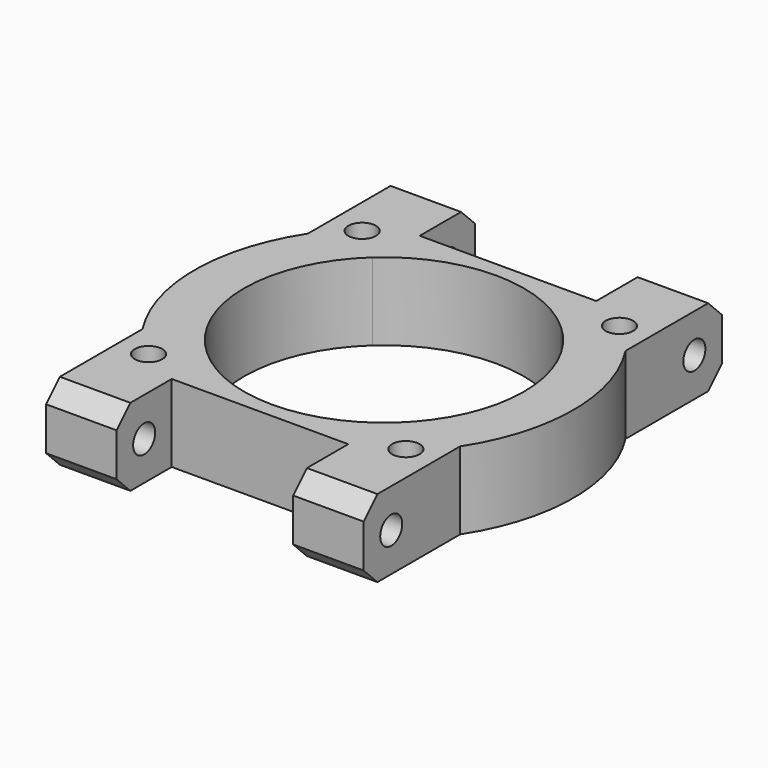
from build123d import *

# Parameters (mm, degrees)
F1_DEPTH = 9
F2_D     = 3.2
F2_DEPTH = 9
F4_D     = 3.2
F4_DEPTH = 40
F5_SIZE  = 2


with BuildPart() as f1:
    # F0 (on Top) → F1 (new body)
    with BuildSketch(Plane.XY):
        with BuildLine():
            Line((18.439089, -12), (10.957304, -12))
            ThreePointArc((10.957304, -12), (0, -16.25), (-10.957304, -12))
            Line((-10.957304, -12), (-18.439089, -12))
            Line((-18.439089, -12), (-18.439089, -26))
            Line((-18.439089, -26), (-10.25, -26))
            Line((-10.25, -26), (-10.25, -18))
            Line((-10.25, -18), (10.25, -18))
            Line((10.25, -18), (10.25, -26))
            Line((10.25, -26), (18.439089, -26))
            Line((18.439089, -26), (18.439089, -12))
        make_face()
        with BuildLine():
            ThreePointArc((-10.957304, -12), (-16.25, 0), (-10.957304, 12))
            Line((-10.957304, 12), (-18.439089, 12))
            ThreePointArc((-18.439089, 12), (-22, 0), (-18.439089, -12))
            Line((-18.439089, -12), (-10.957304, -12))
        make_face()
        with BuildLine():
            ThreePointArc((-10.957304, 12), (0, 16.25), (10.957304, 12))
            Line((10.957304, 12), (18.439089, 12))
            Line((18.439089, 12), (18.439089, 26))
            Line((18.439089, 26), (10.25, 26))
            Line((10.25, 26), (10.25, 18))
            Line((10.25, 18), (-10.25, 18))
            Line((-10.25, 18), (-10.25, 26))
            Line((-10.25, 26), (-18.439089, 26))
            Line((-18.439089, 26), (-18.439089, 12))
            Line((-18.439089, 12), (-10.957304, 12))
        make_face()
        with BuildLine():
            ThreePointArc((10.957304, 12), (14.868064, 6.557679), (16.25, 0))
            ThreePointArc((16.25, 0), (14.868064, -6.557679), (10.957304, -12))
            Line((10.957304, -12), (18.439089, -12))
            ThreePointArc((18.439089, -12), (22, 0), (18.439089, 12))
            Line((18.439089, 12), (10.957304, 12))
        make_face()
    extrude(amount=F1_DEPTH)

    # F2
    with Locations(Plane(origin=(0, 0, 0), x_dir=(1, 0, 0), z_dir=(0, 0, -1))):
        with Locations((-14.939089, -15.5), (14.939089, -15.5), (14.939089, 15.5), (-14.939089, 15.5)):
            Hole(F2_D / 2, depth=F2_DEPTH)

    # F4
    with Locations(Plane.YZ.offset(18.439089)):
        with Locations((-22, 4.5), (22, 4.5)):
            Hole(F4_D / 2, depth=F4_DEPTH)

    # F5
    f5_edges = [f1.edges().sort_by_distance(p)[0] for p in [
        (14.344544, 26, 9),
        (14.344544, 26, 0),
        (-14.344544, 26, 9),
        (-14.344544, 26, 0),
        (-14.344544, -26, 9),
        (14.344544, -26, 9),
        (14.344544, -26, 0),
        (-14.344544, -26, 0),
    ]]
    chamfer(f5_edges, length=F5_SIZE)


solid = f1.part
